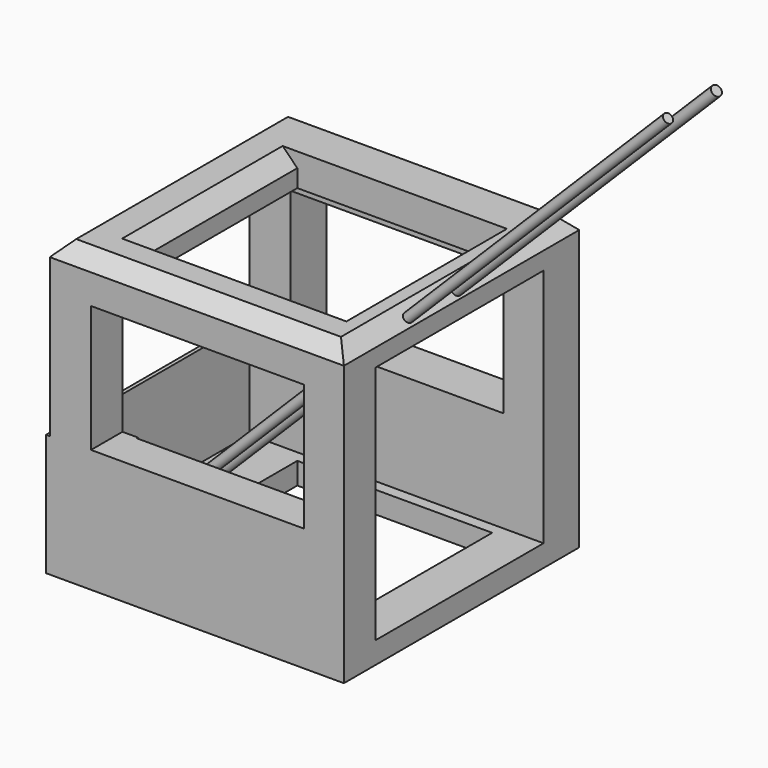
from build123d import *

# Parameters (mm, degrees)
F0_W      = 2000
F0_H      = 2000
F1_DEPTH  = 2000
F2_W      = 1447.650209
F2_H      = 861.64999
F3_DEPTH  = 2000.001
F4_W      = 1324.842453
F4_H      = 1363.778203
F5_DEPTH  = 2000.001
F6_W      = 1429.494679
F6_H      = 1632.352204
F7_DEPTH  = 2000.001
F8_SIZE   = 100
F9_W      = 2000
F9_H      = 828.463554
F10_DEPTH = 25
F11_R     = 32.29333
F11_R_2   = 35.196484
F12_DEPTH = 2500


with BuildPart() as f1:
    # F0 (on Front) → F1 (new body)
    with BuildSketch(Plane.XZ):
        with Locations((911.060803, 1000)):
            Rectangle(F0_W, F0_H)
    extrude(amount=F1_DEPTH)

    # F2 (on face) → F3 (cut, through all)
    with BuildSketch(Plane.XZ.offset(2000)):
        with Locations((915.388099, 1267.924309)):
            Rectangle(F2_W, F2_H)
    extrude(amount=-F3_DEPTH, mode=Mode.SUBTRACT)

    # F4 (on face) → F5 (cut, through all)
    with BuildSketch(Plane.XY.offset(2000)):
        with Locations((960.488796, -1061.729983)):
            Rectangle(F4_W, F4_H)
    extrude(amount=-F5_DEPTH, mode=Mode.SUBTRACT)

    # F6 (on face) → F7 (cut, through all)
    with BuildSketch(Plane.YZ.offset(1911.060803)):
        with Locations((-1018.019646, 964.268282)):
            Rectangle(F6_W, F6_H)
    extrude(amount=-F7_DEPTH, mode=Mode.SUBTRACT)

    # F8
    f8_edges = [f1.edges().sort_by_distance(p)[0] for p in [
        (1911.060803, -1000, 2000),
        (911.060803, 0, 2000),
        (911.060803, -2000, 2000),
        (-88.939197, -1000, 2000),
        (298.06757, -1061.729982, 2000),
        (1622.910023, -1061.729982, 2000),
    ]]
    chamfer(f8_edges, length=F8_SIZE)

    # F9 (on face) → F10 (join)
    with BuildSketch(Plane(origin=(-88.939197, 0, 0), x_dir=(0, -1, 0), z_dir=(-1, 0, 0))):
        with Locations((1000, 414.231777)):
            Rectangle(F9_W, F9_H)
    extrude(amount=F10_DEPTH)

    # F11 (on face) → F12 (join, symmetric)
    with BuildSketch(Plane(origin=(1905.530401, 0, 1905.530401), x_dir=(0, 1, 0), z_dir=(0.707107, 0, 0.707107))):
        with Locations((-1409.589052, 43.837443)):
            Circle(F11_R)
        with Locations((-1000.058413, 42.046707)):
            Circle(F11_R_2)
    extrude(amount=F12_DEPTH, both=True)


solid = f1.part
